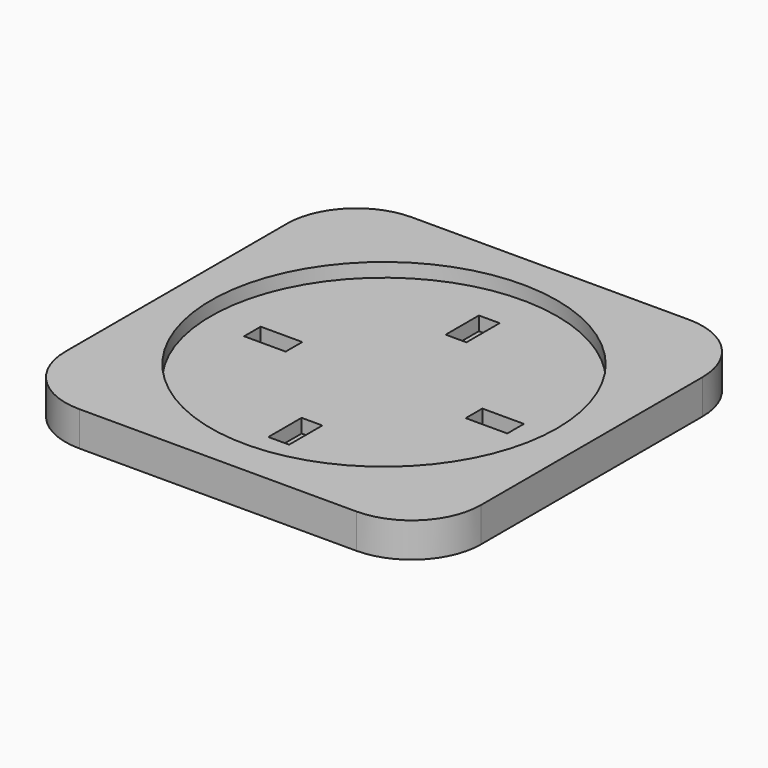
from build123d import *

# Parameters (mm, degrees)
F0_W     = 60
F0_H     = 60
F1_DEPTH = 5
F2_R     = 25
F3_DEPTH = 2
F4_R     = 25
F5_DEPTH = 2
F6_R     = 10
F7_W     = 3
F7_H     = 6
F7_W_2   = 6
F7_H_2   = 3
F8_DEPTH = 2


with BuildPart() as f1:
    # F0 (on Top) → F1 (new body)
    with BuildSketch(Plane.XY):
        Rectangle(F0_W, F0_H)
    extrude(amount=F1_DEPTH)

    # F2 (on face) → F3 (join)
    with BuildSketch(Plane.XY.offset(5)):
        Circle(F2_R)
    extrude(amount=-F3_DEPTH)

    # F4 (on face) → F5 (cut)
    with BuildSketch(Plane.XY.offset(5)):
        Circle(F4_R)
    extrude(amount=-F5_DEPTH, mode=Mode.SUBTRACT)

    # F6
    f6_edges = [f1.edges().sort_by_distance(p)[0] for p in [
        (-30, -30, 2.5),
        (-30, 30, 2.5),
        (30, 30, 2.5),
        (30, -30, 2.5),
    ]]
    fillet(f6_edges, radius=F6_R)

    # F7 (on face) → F8 (cut)
    with BuildSketch(Plane.XY.offset(3)):
        with Locations((0, 16)):
            Rectangle(F7_W, F7_H)
        with Locations((-16, 0)):
            Rectangle(F7_W_2, F7_H_2)
        with Locations((0, -16)):
            Rectangle(F7_W, F7_H)
        with Locations((16, 0)):
            Rectangle(F7_W_2, F7_H_2)
    extrude(amount=-F8_DEPTH, mode=Mode.SUBTRACT)


solid = f1.part
